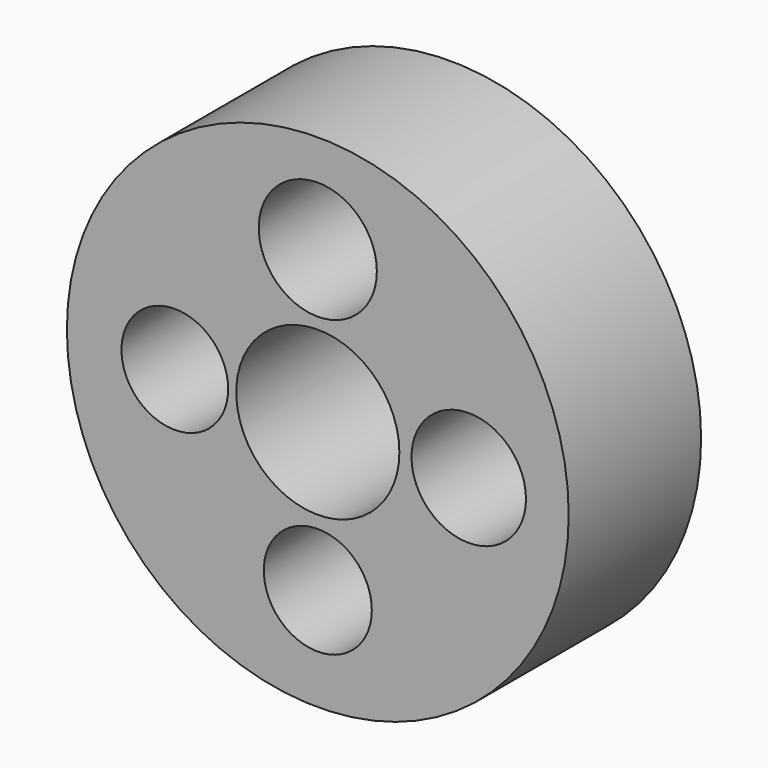
from build123d import *

# Parameters (mm, degrees)
F0_R     = 37.901352
F0_R_2   = 34.351311
F0_R_3   = 8.160883
F0_R_4   = 8.05683
F0_R_5   = 12.322845
F0_R_6   = 8.644217
F0_R_7   = 8.919641
F1_DEPTH = 25


with BuildPart() as f1:
    # F0 (on Front) → F1 (new body)
    with BuildSketch(Plane.XZ):
        Circle(F0_R)
        Circle(F0_R_2, mode=Mode.SUBTRACT)
        Circle(F0_R_2)
        with Locations((0, -22.35)):
            Circle(F0_R_3, mode=Mode.SUBTRACT)
        with Locations((-21.600001, 0)):
            Circle(F0_R_4, mode=Mode.SUBTRACT)
        Circle(F0_R_5, mode=Mode.SUBTRACT)
        with Locations((22.8, 0)):
            Circle(F0_R_6, mode=Mode.SUBTRACT)
        with Locations((0, 22.950001)):
            Circle(F0_R_7, mode=Mode.SUBTRACT)
    extrude(amount=F1_DEPTH)


solid = f1.part
